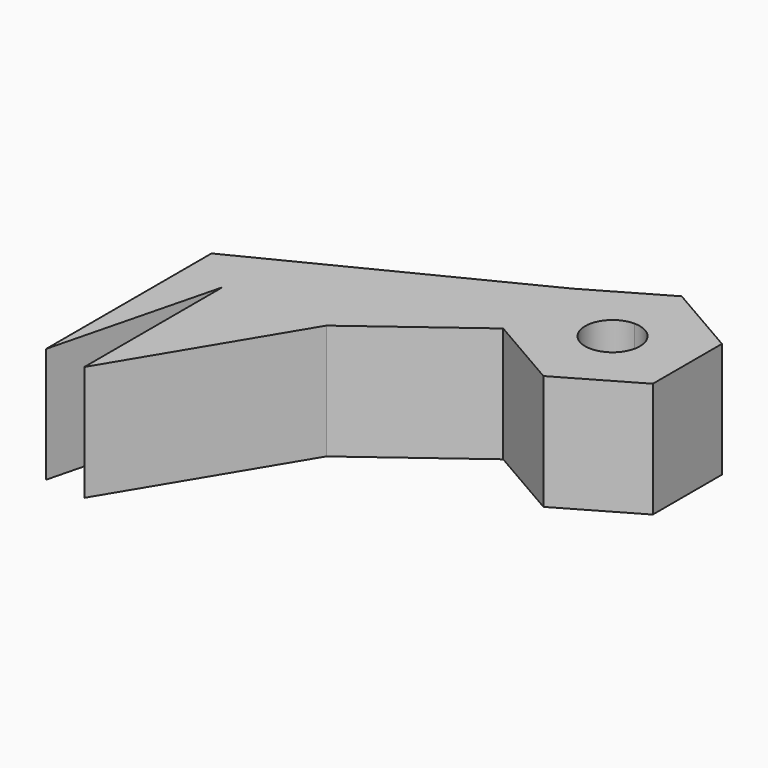
from build123d import *

# Parameters (mm, degrees)
F1_DEPTH = 25.4


with BuildPart() as f1:
    # F0 (on Top) → F1 (new body)
    with BuildSketch(Plane.XY):
        with BuildLine():
            Line((0, 13.014683), (0, 0))
            Line((0, 0), (16.497784, 9.525))
            Line((16.497784, 9.525), (16.497784, 28.575))
            Line((16.497784, 28.575), (0, 38.1))
            Line((0, 38.1), (0, 25.085317))
            ThreePointArc((0, 25.085317), (4.267614, 23.317614), (6.035317, 19.05))
            ThreePointArc((6.035317, 19.05), (4.267614, 14.782386), (0, 13.014683))
        make_face()
        with BuildLine():
            Line((-16.497784, 9.525), (0, 0))
            Line((0, 0), (0, 13.014683))
            ThreePointArc((0, 13.014683), (-6.035317, 19.05), (0, 25.085317))
            Line((0, 25.085317), (0, 38.1))
            Line((0, 38.1), (-16.497784, 28.575))
            Line((-16.497784, 28.575), (-16.497784, 9.525))
        make_face()
        Polygon((-40.955292, -8.664576), (-16.497784, 9.525), (-16.497784, 28.575), (-73.205097, 0), (-73.205097, -45.598332), (-63.850543, -8.664576), (-63.850543, -46.764576), align=None)
    extrude(amount=F1_DEPTH)


solid = f1.part
